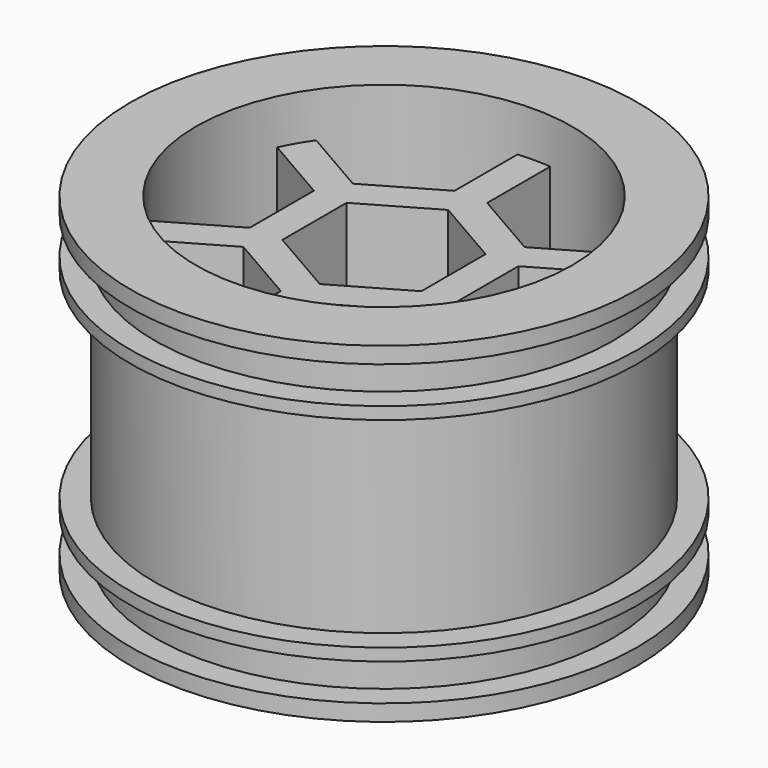
from build123d import *

# Parameters (mm, degrees)
F0_W     = 23
F0_H     = 5
F2_R     = 4
F3_DEPTH = 5
F6_DEPTH = 25
F7_DEPTH = 35
F5_DEPTH = 35
F8_COUNT = 6


with BuildPart() as f1:
    # F0 (on Front) → F1 (revolve)
    with BuildSketch(Plane.XZ):
        with Locations((11.5, 2.5)):
            Rectangle(F0_W, F0_H)
        Polygon((23, 5), (23, 0), (31, 0), (31, 2), (28, 2), (28, 6.5), (31, 6.5), (31, 8), (28, 8), (28, 32.5), (31, 32.5), (31, 34), (28, 34), (28, 38.5), (31, 38.5), (31, 40.5), (23, 40.5), (23, 20.25), align=None)
    revolve(axis=Axis((0, 0, 2.5), (0, 0, -1)))

    # F2 (on face) → F3 (cut, through all)
    with BuildSketch(Plane(origin=(0, 0, 0), x_dir=(1, 0, 0), z_dir=(0, 0, -1))):
        with Locations((-17, 0)):
            Circle(F2_R)
        with Locations((-8.5, -14.7224318643)):
            Circle(F2_R)
        with Locations((8.5, -14.7224318643)):
            Circle(F2_R)
        with Locations((17, 0)):
            Circle(F2_R)
        with Locations((8.5, 14.7224318643)):
            Circle(F2_R)
        with Locations((-8.5, 14.7224318643)):
            Circle(F2_R)
    extrude(amount=-F3_DEPTH, mode=Mode.SUBTRACT)

    # F4 (on Top) → F6 (join)
    with BuildSketch(Plane.XY):
        Polygon((8.5, 4.9074772881), (0, 9.8149545762), (-8.5, 4.9074772881), (-8.5, -4.9074772881), (0, -9.8149545762), (8.5, -4.9074772881), align=None)
    extrude(amount=F6_DEPTH)

    # F4 (on Top) → F7 (join)
    with BuildSketch(Plane.XY):
        Polygon((2, 9.8149545762), (0, 9.8149545762), (-2, 9.8149545762), (-2, 13.2790561914), (-12.5, 7.2168783649), (-12.5, -7.2168783649), (0, -14.4337567297), (12.5, -7.2168783649), (12.5, 7.2168783649), (2, 13.2790561914), align=None)
        Polygon((-8.5, 4.9074772881), (0, 9.8149545762), (8.5, 4.9074772881), (8.5, -4.9074772881), (0, -9.8149545762), (-8.5, -4.9074772881), align=None, mode=Mode.SUBTRACT)
        Polygon((-2, 9.8149545762), (0, 9.8149545762), (2, 9.8149545762), (2, 13.2790561914), (0, 14.4337567297), (-2, 13.2790561914), align=None)
    extrude(amount=F7_DEPTH)

    # F4 (on Top) → F5 (join)
    with BuildSketch(Plane.XY):
        Polygon((-2, 23), (-2, 13.2790561914), (0, 14.4337567297), (2, 13.2790561914), (2, 23), align=None)
    extrude(amount=F5_DEPTH)

    # F8: F1 ×6 about axis
    f8_axis = Axis((0, 0, 40.5), (0, 0, -1))


with BuildPart() as f1_1:
    add(f1.part)
    for i in range(1, F8_COUNT):
        add(f1.part.rotate(f8_axis, i * 360 / F8_COUNT))


solid = f1_1.part
